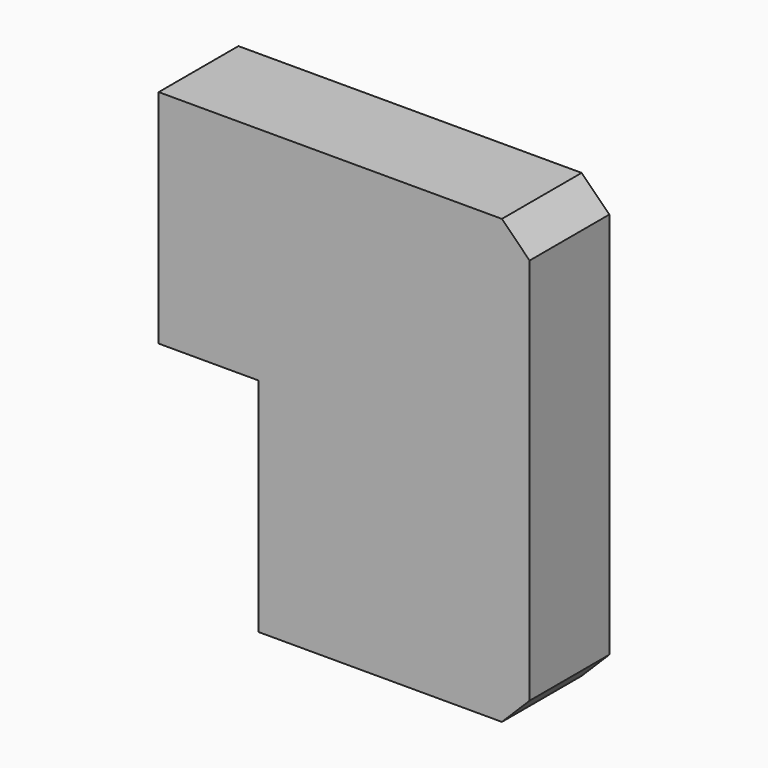
from build123d import *

# Parameters (mm, degrees)
F1_DEPTH = 18
F2_SIZE  = 5


with BuildPart() as f1:
    # F0 (on Front) → F1 (new body)
    with BuildSketch(Plane.XZ):
        Polygon((18, 40), (18, 0), (67, 0), (67, 80), (0, 80), (0, 40), align=None)
    extrude(amount=F1_DEPTH)

    # F2
    f2_edges = [f1.edges().sort_by_distance(p)[0] for p in [
        (67, -9, 80),
        (67, -9, 0),
    ]]
    chamfer(f2_edges, length=F2_SIZE)


solid = f1.part
